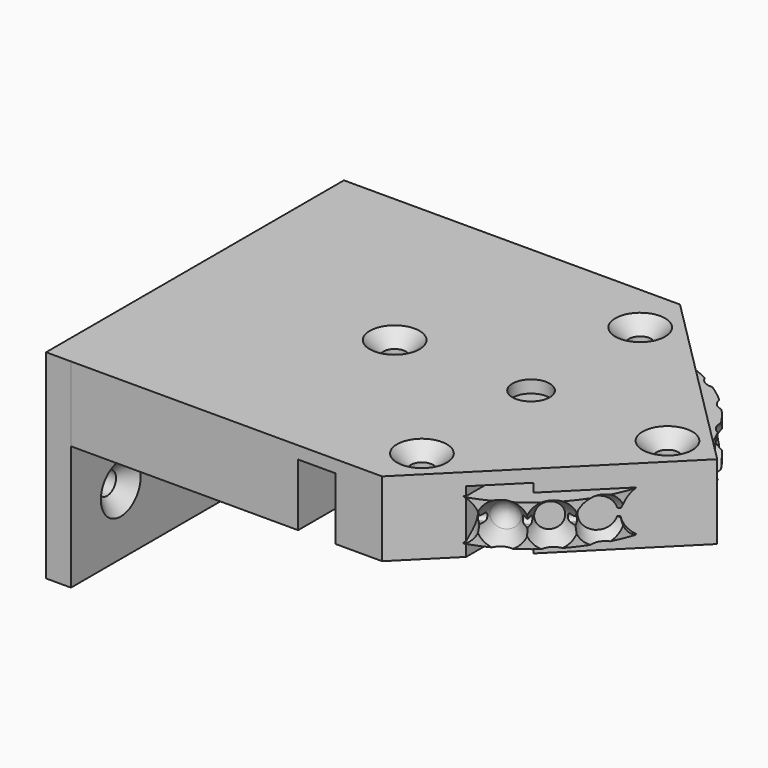
from build123d import *

# Parameters (mm, degrees)
BINDER001_R         = 23.945354
PAD_DEPTH           = 3.3
FILLET_R            = 1
POLARPATTERN_COUNT  = 24
POCKET_DEPTH        = 3.901
POCKET_DEPTH_BACK   = 2.701
PAD001_DEPTH        = 12
HOLE_D              = 3.6
HOLE_CSINK_D        = 8
HOLE_CSINK_ANGLE    = 90
POCKET001_DEPTH     = 10
POCKET001_FACE1_W   = 29.910616
POCKET001_FACE1_H   = 12
PAD002_DEPTH        = 4
PAD002_FACE13_W     = 29.910616
PAD002_FACE13_H     = 4
PAD003_DEPTH        = 20
HOLE001_D           = 3.6
HOLE001_CSINK_D     = 8
HOLE001_CSINK_ANGLE = 90
SKETCH009_R         = 3
POCKET002_DEPTH     = 2.001


with BuildPart() as body001:
    # Binder001 → Pad (new body, symmetric)
    with BuildSketch(Plane(origin=(0, 0, 0), x_dir=(0, 1, 0), z_dir=(0, 0, 1))):
        Circle(BINDER001_R)
    extrude(amount=PAD_DEPTH, both=True)

    # Binder002 → Groove001 (revolve, cut)
    with BuildSketch(Plane(origin=(23.145354, 0, 0), x_dir=(1, 0, 0), z_dir=(0, 1, 0))):
        with BuildLine():
            ThreePointArc((-0.8, 0.6), (-1.4, 0), (-0.8, -0.6))
            Line((-0.8, -0.6), (0.8, -0.6))
            ThreePointArc((0.8, -0.6), (1.4, 0), (0.8, 0.6))
            Line((0.8, 0.6), (-0.8, 0.6))
        make_face()
    revolve(axis=Axis((0, 0, 0), (0, 0, 1)), mode=Mode.SUBTRACT)

    # Fillet
    fillet_edges = [body001.edges().sort_by_distance(p)[0] for p in [
        (-23.945354, 0, -0.6),
        (-23.945354, 0, 0.6),
    ]]
    fillet(fillet_edges, radius=FILLET_R)

    # Binder003 → Groove002 (revolve, cut)
    with BuildSketch(Plane(origin=(22.355049, 0, 1.316771), x_dir=(1, 0, 0), z_dir=(0, 1, 0))):
        with BuildLine():
            ThreePointArc((-2.309695, 1.316771), (-2.001553, 0.166771), (-1.159695, -0.675088))
            Line((-1.159695, -0.675088), (1.590305, -2.262801))
            Line((1.590305, -2.262801), (1.590305, 1.316771))
            Line((1.590305, 1.316771), (-2.309695, 1.316771))
        make_face()
    groove002 = revolve(axis=Axis((0, 0, 0), (1, 0, 0)), mode=Mode.SUBTRACT)

    # PolarPattern: Groove002 ×24 about axis
    polarpattern_axis = Axis((0, 0, 0), (0, 0, 1))
    for i in range(1, POLARPATTERN_COUNT):
        add(groove002.rotate(polarpattern_axis, i * 360 / POLARPATTERN_COUNT), mode=Mode.SUBTRACT)

    # Binder → Pocket (cut, two sides)
    with BuildSketch(Plane(origin=(0, 0.118931, 0.6), x_dir=(0, 1, 0), z_dir=(0, 0, 1))) as pocket_sk:
        with BuildLine():
            ThreePointArc((-2.218931, -1.532971), (2.481069, 0), (-2.218931, 1.532971))
            Line((-2.218931, 1.532971), (-2.218931, 0))
            Line((-2.218931, 0), (-2.218931, -1.532971))
        make_face()
    extrude(amount=-POCKET_DEPTH, mode=Mode.SUBTRACT)
    extrude(pocket_sk.sketch, amount=POCKET_DEPTH_BACK, mode=Mode.SUBTRACT)


with BuildPart() as body:
    # Sketch005 → Pad001 (new body)
    with BuildSketch(Plane.XY):
        Polygon((-50, 29.910617), (-50, 0), (29.910617, 0), (0, 29.910617), align=None)
    pad001 = extrude(amount=PAD001_DEPTH)

    # Hole (through all)
    with Locations(Plane.XY.offset(12)):
        with Locations((-21.92031, 0), (0, 21.92031), (21.92031, 0)):
            hole = CounterSinkHole(HOLE_D / 2, HOLE_CSINK_D / 2, counter_sink_angle=HOLE_CSINK_ANGLE)

    # Sketch007 (on Face4 of Hole) → Pocket001 (cut)
    with BuildSketch(Plane(origin=(0, 0, 0), x_dir=(1, 0, 0), z_dir=(0, 0, -1))):
        with BuildLine():
            ThreePointArc((-7.5, -11.224972), (0, -13.5), (7.5, -11.224972))
            Line((7.5, -11.224972), (7.5, -22.410617))
            Line((7.5, -22.410617), (13.5, -16.410617))
            Line((13.5, -16.410617), (13.5, 0))
            Line((-13.5, 0), (13.5, 0))
            Line((-13.5, -29.910617), (-13.5, 0))
            Line((-13.5, -29.910617), (-7.5, -29.910617))
            Line((-7.5, -11.224972), (-7.5, -29.910617))
        make_face()
    pocket001 = extrude(amount=-POCKET001_DEPTH, mode=Mode.SUBTRACT)

    # Pocket001 Face1 → Pad002 (add)
    with BuildSketch(Plane(origin=(-50, 14.955308, 6), x_dir=(0, 1, 0), z_dir=(-1, 0, 0))):
        Rectangle(POCKET001_FACE1_W, POCKET001_FACE1_H)
    pad002 = extrude(amount=PAD002_DEPTH)

    # Pad002 Face13 → Pad003 (add)
    with BuildSketch(Plane(origin=(-52, 14.955308, 0), x_dir=(0, -1, 0), z_dir=(0, 0, -1))):
        Rectangle(PAD002_FACE13_W, PAD002_FACE13_H)
    pad003 = extrude(amount=PAD003_DEPTH)

    # Hole001 (through all)
    with Locations(Plane.YZ.offset(-50)):
        with Locations((19.910617, -10)):
            hole001 = CounterSinkHole(HOLE001_D / 2, HOLE001_CSINK_D / 2, counter_sink_angle=HOLE001_CSINK_ANGLE)

    # Mirrored: Pad001, Hole, Pocket001, Pad002, Pad003, Hole001 across face of Hole001
    add(pad001.mirror(Plane(origin=(0, 0, 7.175258), x_dir=(1, 0, 0), z_dir=(0, -1, 0))))
    add(hole.mirror(Plane(origin=(0, 0, 7.175258), x_dir=(1, 0, 0), z_dir=(0, -1, 0))), mode=Mode.SUBTRACT)
    add(pocket001.mirror(Plane(origin=(0, 0, 7.175258), x_dir=(1, 0, 0), z_dir=(0, -1, 0))), mode=Mode.SUBTRACT)
    add(pad002.mirror(Plane(origin=(0, 0, 7.175258), x_dir=(1, 0, 0), z_dir=(0, -1, 0))))
    add(pad003.mirror(Plane(origin=(0, 0, 7.175258), x_dir=(1, 0, 0), z_dir=(0, -1, 0))))
    add(hole001.mirror(Plane(origin=(0, 0, 7.175258), x_dir=(1, 0, 0), z_dir=(0, -1, 0))), mode=Mode.SUBTRACT)

    # Sketch009 (on Face32 of Mirrored) → Pocket002 (cut, through all)
    with BuildSketch(Plane(origin=(0, 0, 10), x_dir=(1, 0, 0), z_dir=(0, 0, -1))):
        Circle(SKETCH009_R)
    extrude(amount=-POCKET002_DEPTH, mode=Mode.SUBTRACT)


with BuildPart() as body_1:
    # Body placement: moved
    add(body.part.moved(Location((0, 0, -5.3))))


solid = Compound([body001.part, body_1.part])
